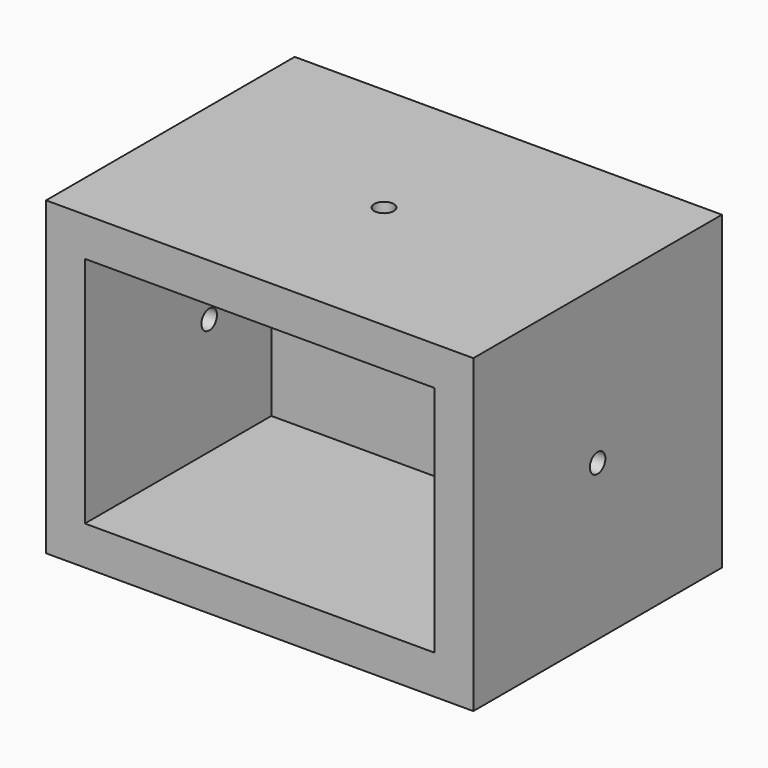
from build123d import *

# Parameters (mm, degrees)
F0_W     = 279.4
F0_H     = 203.2
F1_DEPTH = 203.2
F5_W     = 228.6
F5_H     = 152.4
F6_DEPTH = 152.4
F2_R     = 6.35
F7_DEPTH = 25.4
F3_R     = 6.35
F8_DEPTH = 25.4
F4_R     = 6.35
F9_DEPTH = 25.4


with BuildPart() as f1:
    # F0 (on Front) → F1 (new body)
    with BuildSketch(Plane.XZ):
        Rectangle(F0_W, F0_H)
    extrude(amount=-F1_DEPTH)

    # F5 (on Front) → F6 (cut)
    with BuildSketch(Plane.XZ):
        Rectangle(F5_W, F5_H)
    extrude(amount=-F6_DEPTH, mode=Mode.SUBTRACT)

    # F2 (on face) → F7 (cut)
    with BuildSketch(Plane.XY.offset(101.6)):
        with Locations((0, 101.6)):
            Circle(F2_R)
    extrude(amount=-F7_DEPTH, mode=Mode.SUBTRACT)

    # F3 (on face) → F8 (cut)
    with BuildSketch(Plane.YZ.offset(139.7)):
        with Locations((101.6, 0)):
            Circle(F3_R)
    extrude(amount=-F8_DEPTH, mode=Mode.SUBTRACT)

    # F4 (on face) → F9 (cut)
    with BuildSketch(Plane(origin=(-139.7, 0, 0), x_dir=(0, -1, 0), z_dir=(-1, 0, 0))):
        with Locations((-101.6, 0)):
            Circle(F4_R)
    extrude(amount=-F9_DEPTH, mode=Mode.SUBTRACT)


solid = f1.part
